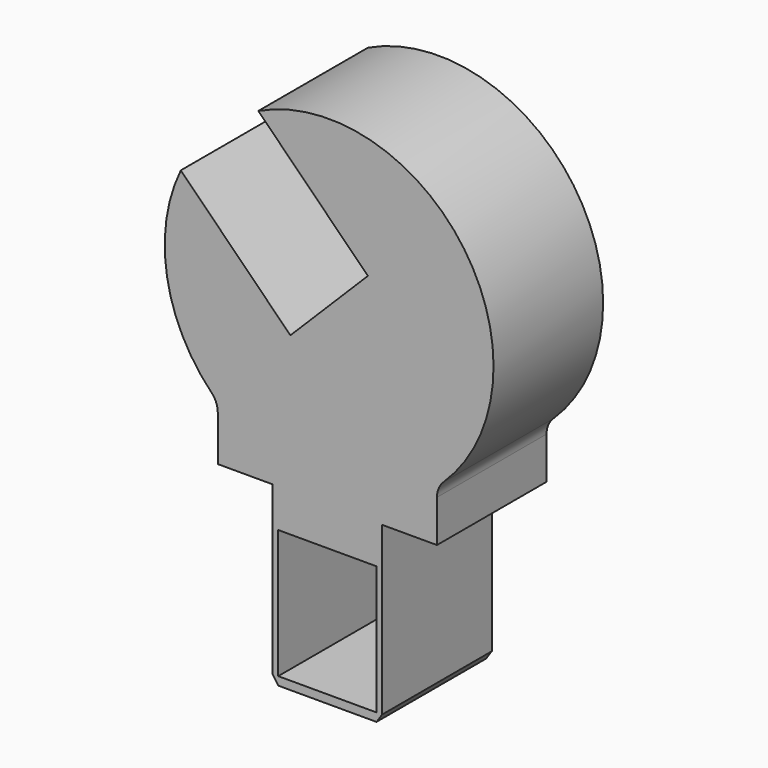
from build123d import *

# Parameters (mm, degrees)
F0_W     = 1.03612
F0_H     = 23.47579
F1_DEPTH = 25


with BuildPart() as f1:
    # F0 (on Front) → F1 (new body)
    with BuildSketch(Plane.XZ):
        with BuildLine():
            Line((-6.746361, 14.927887), (-26.746361, 34.927887))
            ThreePointArc((-26.746361, 34.927887), (-29.272776, 17.101097), (-21.13827, 1.0385))
            ThreePointArc((-21.13827, 1.0385), (-20.295481, -0.247406), (-20, -1.756227))
            Line((-20, -1.756227), (-20, -10.066999))
            Line((-20, -10.066999), (-10, -10.066999))
            Line((-10, -10.066999), (0, -10.066999))
            Line((0, -10.066999), (10, -10.066999))
            Line((10, -10.066999), (20, -10.066999))
            Line((20, -10.066999), (20, -2.403514))
            ThreePointArc((20, -2.403514), (20.316163, -0.844879), (21.214671, 0.467364))
            ThreePointArc((21.214671, 0.467364), (24.949879, 39.133741), (-12.604225, 49.070022))
            Line((-12.604225, 49.070022), (7.395775, 29.070022))
            Line((7.395775, 29.070022), (0.324707, 21.998955))
            Line((0.324707, 21.998955), (-6.746361, 14.927887))
        make_face()
        Polygon((0, -10.066999), (-10, -10.066999), (-10, -17.066999), (-8.96388, -17.066999), (0, -17.066999), (8.96388, -17.066999), (10, -17.066999), (10, -10.066999), align=None)
        with Locations((-9.48194, -28.804894)):
            Rectangle(F0_W, F0_H)
        Polygon((-8.96388, -40.542789), (-10, -40.542789), (-8.96388, -42.066999), align=None)
        with Locations((9.48194, -28.804894)):
            Rectangle(F0_W, F0_H)
        Polygon((0, -40.542789), (-8.96388, -40.542789), (-8.96388, -42.066999), (8.96388, -42.066999), (8.96388, -40.542789), align=None)
        Polygon((8.96388, -42.066999), (10, -40.542789), (8.96388, -40.542789), align=None)
    extrude(amount=F1_DEPTH)


solid = f1.part
